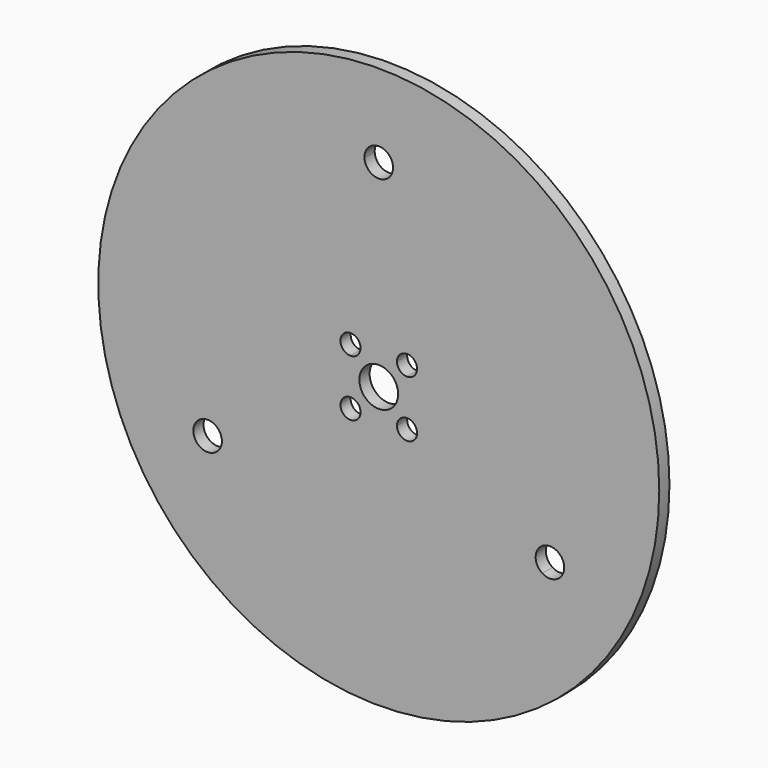
from build123d import *

# Parameters (mm, degrees)
F0_R     = 69.85
F0_R_2   = 4.826
F1_DEPTH = 3.175


with BuildPart() as f1:
    # F0 (on Front) → F1 (new body)
    with BuildSketch(Plane.XZ):
        Circle(F0_R)
        with BuildLine():
            ThreePointArc((3.5536784064, 49.0840251613), (36.0330095525, 33.5185378386), (49.2125, 0))
            ThreePointArc((49.2125, 0), (47.9647705666, -11.0114004897), (44.2848519129, -21.4644368039))
            ThreePointArc((44.2848519129, -21.4644368039), (45.6662348855, -22.7728999037), (46.1752751837, -24.60625))
            ThreePointArc((46.1752751837, -24.60625), (44.3413446416, -27.7174576083), (40.7311735065, -27.6195883574))
            ThreePointArc((40.7311735065, -27.6195883574), (0, -49.2125), (-40.7311735065, -27.6195883574))
            ThreePointArc((-40.7311735065, -27.6195883574), (-45.6988615196, -26.38425), (-44.2848519129, -21.4644368039))
            ThreePointArc((-44.2848519129, -21.4644368039), (-42.6192751837, 24.60625), (-3.5536784064, 49.0840251613))
            ThreePointArc((-3.5536784064, 49.0840251613), (-0.0642479065, 52.7679195542), (3.556, 49.2125))
            ThreePointArc((3.556, 49.2125), (3.5554195542, 49.1482520935), (3.5536784064, 49.0840251613))
        make_face(mode=Mode.SUBTRACT)
        with BuildLine():
            ThreePointArc((44.2848519129, -21.4644368039), (47.9647705666, -11.0114004897), (49.2125, 0))
            ThreePointArc((49.2125, 0), (36.0330095525, 33.5185378386), (3.5536784064, 49.0840251613))
            ThreePointArc((3.5536784064, 49.0840251613), (0, 45.6565), (-3.5536784064, 49.0840251613))
            ThreePointArc((-3.5536784064, 49.0840251613), (-42.6192751837, 24.60625), (-44.2848519129, -21.4644368039))
            ThreePointArc((-44.2848519129, -21.4644368039), (-40.7859250874, -21.5592902982), (-39.0632751837, -24.60625))
            ThreePointArc((-39.0632751837, -24.60625), (-39.5080675754, -26.3283194579), (-40.7311735065, -27.6195883574))
            ThreePointArc((-40.7311735065, -27.6195883574), (0, -49.2125), (40.7311735065, -27.6195883574))
            ThreePointArc((40.7311735065, -27.6195883574), (39.5396888479, -22.82825), (44.2848519129, -21.4644368039))
        make_face()
        with BuildLine():
            ThreePointArc((-7.0358, 4.5358), (-8.803566953, 8.803566953), (-4.5358, 7.0358))
            Line((-4.5358, 7.0358), (4.5358, 7.0358))
            ThreePointArc((4.5358, 7.0358), (7.0358, 9.5358), (9.5358, 7.0358))
            ThreePointArc((9.5358, 7.0358), (8.803566953, 5.268033047), (7.0358, 4.5358))
            Line((7.0358, 4.5358), (7.0358, -4.5358))
            ThreePointArc((7.0358, -4.5358), (8.803566953, -5.268033047), (9.5358, -7.0358))
            ThreePointArc((9.5358, -7.0358), (7.0358, -9.5358), (4.5358, -7.0358))
            Line((4.5358, -7.0358), (-4.5358, -7.0358))
            ThreePointArc((-4.5358, -7.0358), (-8.803566953, -8.803566953), (-7.0358, -4.5358))
            Line((-7.0358, -4.5358), (-7.0358, 4.5358))
        make_face(mode=Mode.SUBTRACT)
        with BuildLine():
            Line((4.5358, 7.0358), (-4.5358, 7.0358))
            ThreePointArc((-4.5358, 7.0358), (-5.268033047, 5.268033047), (-7.0358, 4.5358))
            Line((-7.0358, 4.5358), (-7.0358, -4.5358))
            ThreePointArc((-7.0358, -4.5358), (-5.268033047, -5.268033047), (-4.5358, -7.0358))
            Line((-4.5358, -7.0358), (4.5358, -7.0358))
            ThreePointArc((4.5358, -7.0358), (5.268033047, -5.268033047), (7.0358, -4.5358))
            Line((7.0358, -4.5358), (7.0358, 4.5358))
            ThreePointArc((7.0358, 4.5358), (5.268033047, 5.268033047), (4.5358, 7.0358))
        make_face()
        Circle(F0_R_2, mode=Mode.SUBTRACT)
    extrude(amount=F1_DEPTH)


solid = f1.part
